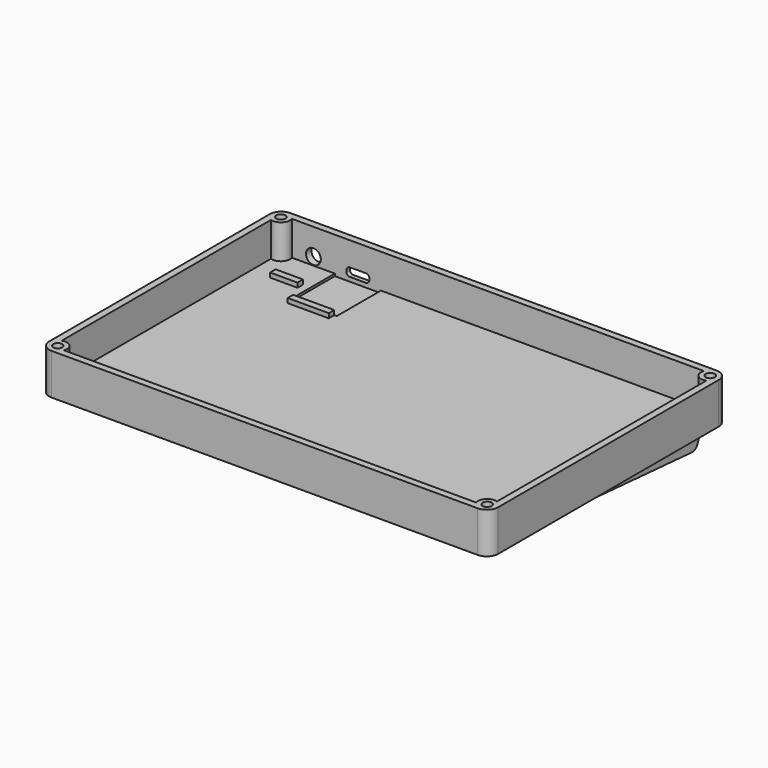
from build123d import *

# Parameters (mm, degrees)
RIGHT_BODY_PAD_DEPTH            = 18
RIGHT_BODY_CAVITY_POCKET_DEPTH  = 15
RIGHT_BODY_BOSSES_R             = 4
RIGHT_BODY_BOSS_PAD_DEPTH       = 15
RIGHT_BODY_INSERT_HOLES_R       = 2
RIGHT_BODY_INSERT_POCKETS_DEPTH = 7
RIGHT_BODY_REST_PAD_DEPTH       = 92.343675
RIGHT_BODY_REST_FILLET_R        = 3
RIGHT_JACK_HOLE_R               = 3.25
RIGHT_JACK_HOLE_POCKET_DEPTH    = 3.2
RIGHT_JACK_STOP_W               = 12
RIGHT_JACK_STOP_H               = 3
RIGHT_JACK_STOP_PAD_DEPTH       = 2
OBJ1               = 20.2
OBJ2               = 24.2
OBJ3    = 1
RIGHT_USB_OPENING_POCKET_DEPTH  = 3.2
RIGHT_USB_BEZEL_POCKET_DEPTH    = 1.1
OBJ4               = 18
OBJ5               = 3
OBJ6       = 2


with BuildPart() as part:
    # Right_Body_Outline → Right_Body_Pad (new body)
    with BuildSketch(Plane.XY.offset(-18)):
        with BuildLine():
            Line((-0.38035, -5.791), (186.307, -5.791))
            ThreePointArc((186.307, -5.791), (189.842534, -4.326534), (191.307, -0.791))
            Line((191.307, -0.791), (191.307, 119.971))
            ThreePointArc((191.307, 119.971), (189.842534, 123.506534), (186.307, 124.971))
            Line((186.307, 124.971), (-0.38035, 124.971))
            ThreePointArc((-0.38035, 124.971), (-3.915884, 123.506534), (-5.38035, 119.971))
            Line((-5.38035, 119.971), (-5.38035, -0.791))
            ThreePointArc((-5.38035, -0.791), (-3.915884, -4.326534), (-0.38035, -5.791))
        make_face()
    extrude(amount=RIGHT_BODY_PAD_DEPTH)

    # Right_Body_Cavity → Right_Body_Cavity_Pocket (cut)
    with BuildSketch(Plane.XY):
        with BuildLine():
            Line((-0.38035, -2.791), (186.307, -2.791))
            ThreePointArc((186.307, -2.791), (187.721214, -2.205214), (188.307, -0.791))
            Line((188.307, -0.791), (188.307, 119.971))
            ThreePointArc((188.307, 119.971), (187.721214, 121.385214), (186.307, 121.971))
            Line((186.307, 121.971), (-0.38035, 121.971))
            ThreePointArc((-0.38035, 121.971), (-1.794564, 121.385214), (-2.38035, 119.971))
            Line((-2.38035, 119.971), (-2.38035, -0.791))
            ThreePointArc((-2.38035, -0.791), (-1.794564, -2.205214), (-0.38035, -2.791))
        make_face()
    extrude(amount=-RIGHT_BODY_CAVITY_POCKET_DEPTH, mode=Mode.SUBTRACT)

    # Right_Body_Bosses → Right_Body_Boss_Pad (join)
    with BuildSketch(Plane.XY.offset(-15)):
        with Locations((-1.08035, -1.491)):
            Circle(RIGHT_BODY_BOSSES_R)
        with Locations((187.007, -1.491)):
            Circle(RIGHT_BODY_BOSSES_R)
        with Locations((-1.08035, 120.671)):
            Circle(RIGHT_BODY_BOSSES_R)
        with Locations((187.007, 120.671)):
            Circle(RIGHT_BODY_BOSSES_R)
    extrude(amount=RIGHT_BODY_BOSS_PAD_DEPTH)

    # Right_Body_Insert_Holes → Right_Body_Insert_Pockets (cut)
    with BuildSketch(Plane.XY):
        with Locations((-1.08035, -1.491)):
            Circle(RIGHT_BODY_INSERT_HOLES_R)
        with Locations((187.007, -1.491)):
            Circle(RIGHT_BODY_INSERT_HOLES_R)
        with Locations((-1.08035, 120.671)):
            Circle(RIGHT_BODY_INSERT_HOLES_R)
        with Locations((187.007, 120.671)):
            Circle(RIGHT_BODY_INSERT_HOLES_R)
    extrude(amount=-RIGHT_BODY_INSERT_POCKETS_DEPTH, mode=Mode.SUBTRACT)

    # Right_Body_Rest → Right_Body_Rest_Pad (join, symmetric)
    with BuildSketch(Plane.YZ.offset(92.963325)):
        Polygon((-5.791, -18), (118.971, -18), (114.852748, -27.112629), align=None)
    extrude(amount=RIGHT_BODY_REST_PAD_DEPTH, both=True)

    # Right_Body_Rest_Fillet
    right_body_rest_fillet_edges = [part.edges().sort_by_distance(p)[0] for p in [
        (92.963325, 114.852748, -27.112629),
    ]]
    fillet(right_body_rest_fillet_edges, radius=RIGHT_BODY_REST_FILLET_R)

    # Right_Jack_Hole → Right_Jack_Hole_Pocket (cut)
    with BuildSketch(Plane.XZ.offset(-124.971)):
        with Locations((12.11965, -11.5)):
            Circle(RIGHT_JACK_HOLE_R)
    extrude(amount=RIGHT_JACK_HOLE_POCKET_DEPTH, mode=Mode.SUBTRACT)

    # Right_Jack_Stop → Right_Jack_Stop_Pad (join)
    with BuildSketch(Plane.XY.offset(-15)):
        with Locations((12.11965, 107.271)):
            Rectangle(RIGHT_JACK_STOP_W, RIGHT_JACK_STOP_H)
    extrude(amount=RIGHT_JACK_STOP_PAD_DEPTH)

    with BuildSketch(Plane.XY.offset(-15)):
        with Locations((31.62, 109.871)):
            Rectangle(OBJ1, OBJ2)
    extrude(amount=-OBJ3, mode=Mode.SUBTRACT)

    # Right_Usb_Opening → Right_Usb_Opening_Pocket (cut)
    with BuildSketch(Plane.XZ.offset(-124.971)):
        with BuildLine():
            Line((28.12, -14.15), (35.12, -14.15))
            ThreePointArc((35.12, -14.15), (36.18066, -13.71066), (36.62, -12.65))
            Line((36.62, -12.65), (36.62, -11.95))
            ThreePointArc((36.62, -11.95), (36.18066, -10.88934), (35.12, -10.45))
            Line((35.12, -10.45), (28.12, -10.45))
            ThreePointArc((28.12, -10.45), (27.05934, -10.88934), (26.62, -11.95))
            Line((26.62, -11.95), (26.62, -12.65))
            ThreePointArc((26.62, -12.65), (27.05934, -13.71066), (28.12, -14.15))
        make_face()
    extrude(amount=RIGHT_USB_OPENING_POCKET_DEPTH, mode=Mode.SUBTRACT)

    # Right_Usb_Bezel → Right_Usb_Bezel_Pocket (cut)
    with BuildSketch(Plane.XZ.offset(-124.971)):
        with BuildLine():
            Line((28.42, -16.15), (34.82, -16.15))
            ThreePointArc((34.82, -16.15), (37.507006, -15.037006), (38.62, -12.35))
            Line((38.62, -12.35), (38.62, -12.25))
            ThreePointArc((38.62, -12.25), (37.507006, -9.562994), (34.82, -8.45))
            Line((34.82, -8.45), (28.42, -8.45))
            ThreePointArc((28.42, -8.45), (25.732994, -9.562994), (24.62, -12.25))
            Line((24.62, -12.25), (24.62, -12.35))
            ThreePointArc((24.62, -12.35), (25.732994, -15.037006), (28.42, -16.15))
        make_face()
    extrude(amount=RIGHT_USB_BEZEL_POCKET_DEPTH, mode=Mode.SUBTRACT)

    with BuildSketch(Plane.XY.offset(-15)):
        with Locations((31.62, 96.271)):
            Rectangle(OBJ4, OBJ5)
    extrude(amount=OBJ6)


with BuildPart() as part_1:
    # Right_Keyboard_Body placement: moved
    add(part.part.moved(Location((174.06235, 0, 0))))


solid = part_1.part
